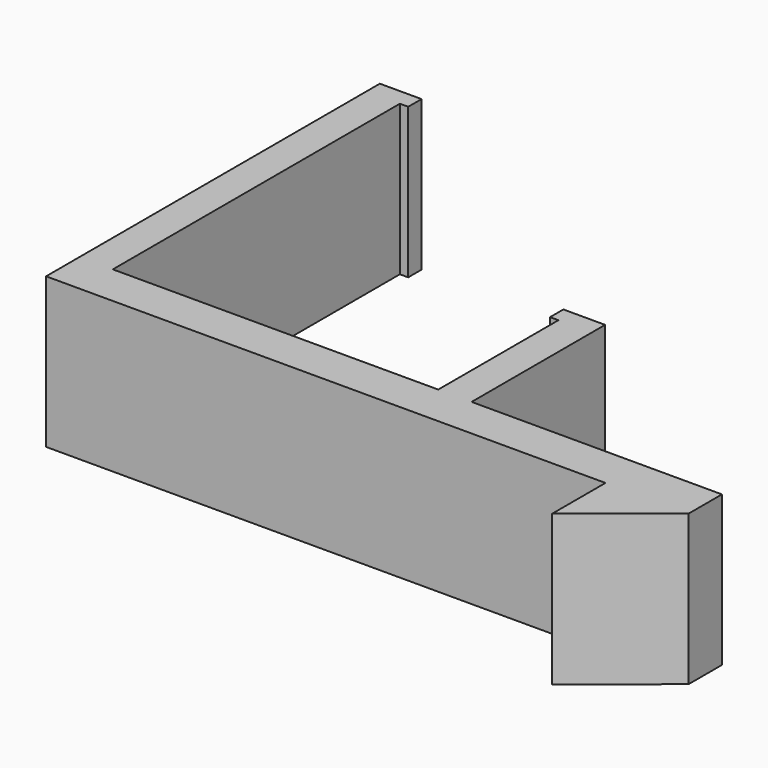
from build123d import *

# Parameters (mm, degrees)
F0_W     = 0.5
F0_H     = 1
F1_DEPTH = 9


with BuildPart() as f1:
    # F0 (on Top) → F1 (new body)
    with BuildSketch(Plane.XY):
        Polygon((-21.5, 11.68193), (-21.5, -13.31807), (12.0211, -13.31807), (17, -13.31807), (17, -10.81807), (2, -10.81807), (2, -0.81807), (0, -0.81807), (0, -1.81807), (0, -10.81807), (-19.5, -10.81807), (-19.5, 10.68193), (-19.5, 11.68193), align=None)
        with Locations((-19.25, 11.18193)):
            Rectangle(F0_W, F0_H)
        with Locations((-0.25, -1.31807)):
            Rectangle(F0_W, F0_H)
        Polygon((17, -13.31807), (12.0211, -13.31807), (12.0211, -17.316059), align=None)
    extrude(amount=-F1_DEPTH)


solid = f1.part
